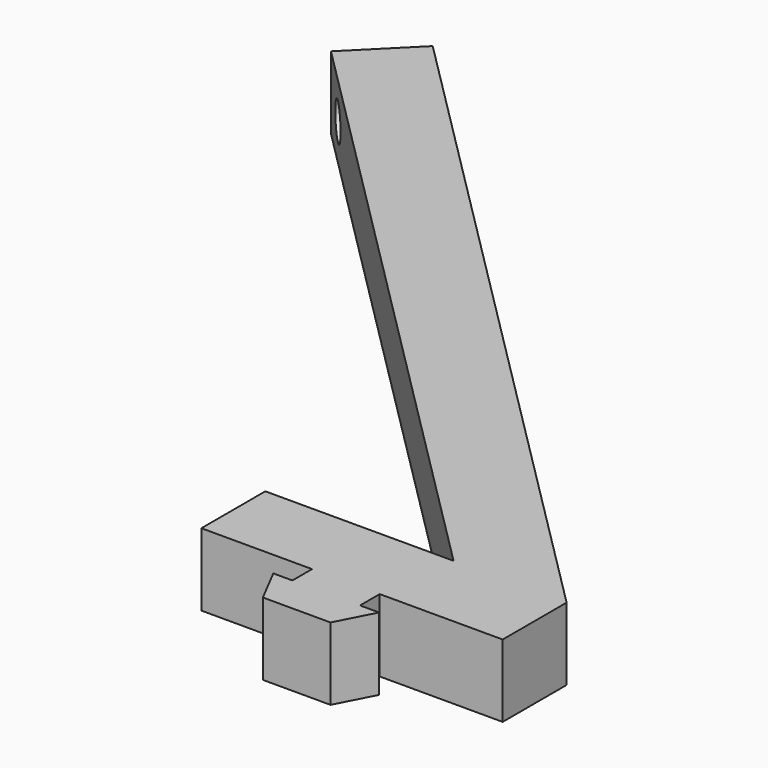
from build123d import *

# Parameters (mm, degrees)
F1_DEPTH = 5.9
F2_R     = 1.5
F3_DEPTH = 6.5


with BuildPart() as f1:
    # F0 (on Top) → F1 (new body)
    with BuildSketch(Plane.XY):
        Polygon((-10, 0), (0, 0), (0, 6.5), (-54.447222, 60.947222), (-59.043416, 56.351028), (-9.192388, 6.5), (-24.5, 6.5), (-24.5, 0), (-15.5, 0), (-15.5, -2), (-17.05, -2), (-15.5, -5), (-10, -5), (-8.45, -2), (-10, -2), align=None)
    extrude(amount=F1_DEPTH)

    # F2 (on face) → F3 (cut, through all)
    with BuildSketch(Plane(origin=(3.25, 3.25, 0), x_dir=(-0.707107, 0.707107, 0), z_dir=(0.707107, 0.707107, 0))):
        with Locations((77.596194, 2.95)):
            Circle(F2_R)
        with Locations((12.596194, 2.95)):
            Circle(F2_R)
    extrude(amount=-F3_DEPTH, mode=Mode.SUBTRACT)


solid = f1.part
